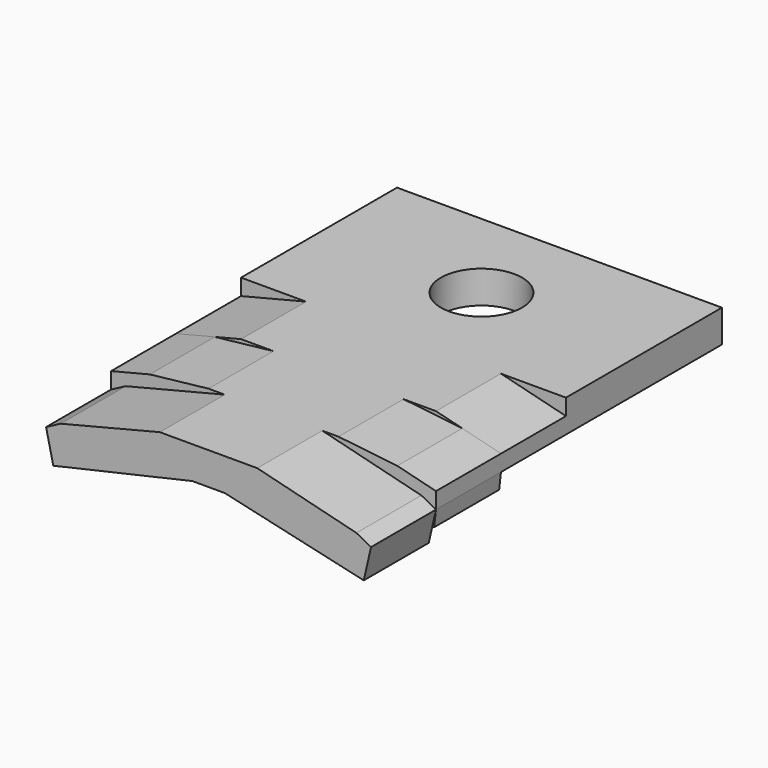
from build123d import *

# Parameters (mm, degrees)
F0_W     = 127
F0_H     = 76.2
F0_R     = 15.875
F1_DEPTH = 12.7
F3_DEPTH = 31.75
F5_START = 31.75
F5_DEPTH = 31.75
F7_START = 63.5
F7_DEPTH = 31.75


with BuildPart() as f1:
    # F0 (on Top) → F1 (new body)
    with BuildSketch(Plane.XY):
        with Locations((0, 38.1)):
            Rectangle(F0_W, F0_H)
        with Locations((0, 38.1)):
            Circle(F0_R, mode=Mode.SUBTRACT)
    extrude(amount=F1_DEPTH)

    # F2 (on Front) → F3 (join)
    with BuildSketch(Plane.XZ):
        Polygon((-6.35, 0), (0, 0), (6.35, 0), (63.5, 0), (63.5, 6.35), (38.1, 12.7), (-38.1, 12.7), (-63.5, 6.35), (-63.5, 0), align=None)
    extrude(amount=F3_DEPTH)

    # F4 (on Front) → F5 (join)
    with BuildSketch(Plane.XZ.offset(F5_START)):
        Polygon((-6.35, 0), (0, 0), (6.35, 0), (62.7944444444, -6.3106807365), (63.5, 0), (63.5, 6.35), (48.3745158286, 10.1313710429), (25.4, 12.7), (-25.4, 12.7), (-48.3745158286, 10.1313710429), (-63.5, 6.35), (-63.5, 0), (-62.7944444444, -6.3106807365), align=None)
    extrude(amount=F5_DEPTH)

    # F6 (on Front) → F7 (join)
    with BuildSketch(Plane.XZ.offset(F7_START)):
        Polygon((-6.35, 0), (0, 0), (6.35, 0), (60.6777777778, -12.3824497467), (63.5, 0), (57.7921046631, 3.0144738342), (19.05, 12.7), (-19.05, 12.7), (-57.7921046631, 3.0144738342), (-63.5, 0), (-60.6777777778, -12.3824497467), align=None)
    extrude(amount=F7_DEPTH)


solid = f1.part
